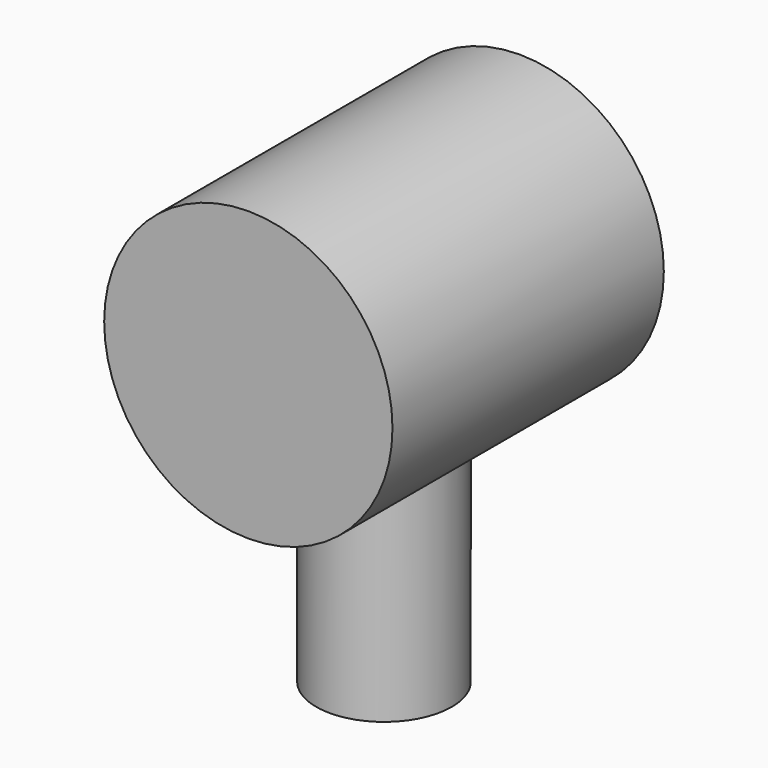
from build123d import *

# Parameters (mm, degrees)
F0_R     = 42.5
F1_DEPTH = 50
F2_R     = 20
F3_DEPTH = 100
F4_W     = 10
F4_H     = 10
F5_DEPTH = 50


with BuildPart() as f1:
    # F0 (on Front) → F1 (new body, symmetric)
    with BuildSketch(Plane.XZ):
        Circle(F0_R)
    extrude(amount=F1_DEPTH, both=True)

    # F2 (on Top) → F3 (join)
    with BuildSketch(Plane.XY):
        Circle(F2_R)
    extrude(amount=-F3_DEPTH)

    # F4 (on face) → F5 (cut)
    with BuildSketch(Plane(origin=(0, 0, -100), x_dir=(1, 0, 0), z_dir=(0, 0, -1))):
        Rectangle(F4_W, F4_H)
    extrude(amount=-F5_DEPTH, mode=Mode.SUBTRACT)


solid = f1.part
